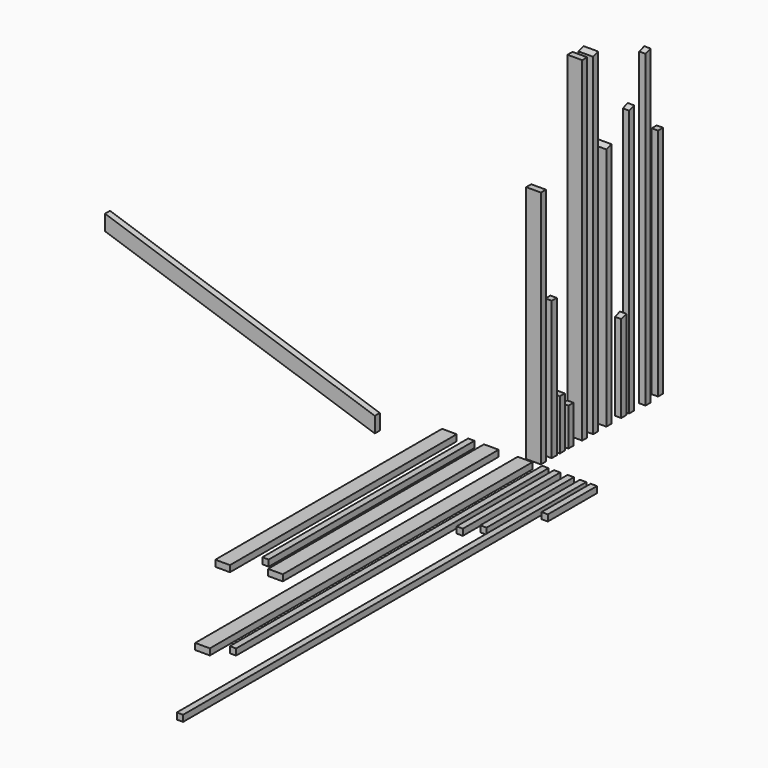
from build123d import *

# Parameters (mm, degrees)
F0_W      = 88.9
F0_H      = 38.1
F1_DEPTH  = 2438.4
F2_W      = 88.9
F2_H      = 38.1
F3_DEPTH  = 1447.8
F4_W      = 38.1
F4_H      = 38.1
F5_DEPTH  = 2362.2
F6_W      = 38.1
F6_H      = 38.1
F7_DEPTH  = 838.2
F8_W      = 38.1
F8_H      = 38.1
F9_DEPTH  = 228.6
F10_W     = 38.1
F10_H     = 38.1
F11_DEPTH = 304.8
F12_W     = 88.9
F12_H     = 38.1
F13_DEPTH = 2025.65
F14_W     = 88.9
F14_H     = 38.1
F15_DEPTH = 1631.95
F16_W     = 38.1
F16_H     = 38.1
F17_DEPTH = 1555.75
F18_W     = 88.9
F18_H     = 38.1
F19_DEPTH = 2022.475
F21_DEPTH = 88.9
F22_W     = 88.9
F22_H     = 38.1
F23_DEPTH = 1489.075
F25_DEPTH = 88.9
F26_W     = 88.9
F26_H     = 38.1
F27_DEPTH = 1714.5
F28_W     = 38.1
F28_H     = 38.1
F29_DEPTH = 539.75
F31_DEPTH = 38.1
F33_DEPTH = 38.1
F34_W     = 38.1
F34_H     = 38.1
F35_DEPTH = 1625.6
F36_W     = 38.1
F36_H     = 38.1
F37_DEPTH = 1885.95
F39_DEPTH = 38.1
F41_DEPTH = 38.1
F42_W     = 38.1
F42_H     = 38.1
F43_DEPTH = 736.6
F44_W     = 38.1
F44_H     = 38.1
F45_DEPTH = 660.4
F46_W     = 38.1
F46_H     = 38.1
F47_DEPTH = 1416.05
F48_W     = 38.1
F48_H     = 38.1
F49_DEPTH = 3048
F50_W     = 38.1
F50_H     = 38.1
F51_DEPTH = 371.475


with BuildPart() as f1:
    # F0 (on Front) → F1 (new body)
    with BuildSketch(Plane.XZ):
        with Locations((-44.45, 19.05)):
            Rectangle(F0_W, F0_H)
    extrude(amount=F1_DEPTH)


with BuildPart() as f3:
    # F2 (on Top) → F3 (new body)
    with BuildSketch(Plane.XY):
        with Locations((-44.45, 83.000144)):
            Rectangle(F2_W, F2_H)
    extrude(amount=F3_DEPTH)


with BuildPart() as f5:
    # F4 (on Front) → F5 (new body)
    with BuildSketch(Plane.XZ):
        with Locations((78.388591, 19.05)):
            Rectangle(F4_W, F4_H)
    extrude(amount=F5_DEPTH)


with BuildPart() as f7:
    # F6 (on Top) → F7 (new body)
    with BuildSketch(Plane.XY):
        with Locations((-19.05, 164.954718)):
            Rectangle(F6_W, F6_H)
    extrude(amount=F7_DEPTH)


with BuildPart() as f9:
    # F8 (on Top) → F9 (new body)
    with BuildSketch(Plane.XY):
        with Locations((-19.05, 291.060236)):
            Rectangle(F8_W, F8_H)
    extrude(amount=F9_DEPTH)


with BuildPart() as f11:
    # F10 (on Top) → F11 (new body)
    with BuildSketch(Plane.XY):
        with Locations((-19.05, 225.900951)):
            Rectangle(F10_W, F10_H)
    extrude(amount=F11_DEPTH)


with BuildPart() as f13:
    # F12 (on Top) → F13 (new body)
    with BuildSketch(Plane.XY):
        with Locations((-44.45, 395.349612)):
            Rectangle(F12_W, F12_H)
    extrude(amount=F13_DEPTH)


with BuildPart() as f15:
    # F14 (on Front) → F15 (new body)
    with BuildSketch(Plane.XZ):
        with Locations((-248.712714, 19.05)):
            Rectangle(F14_W, F14_H)
    extrude(amount=F15_DEPTH)


with BuildPart() as f17:
    # F16 (on Front) → F17 (new body)
    with BuildSketch(Plane.XZ):
        with Locations((-369.40583, 19.05)):
            Rectangle(F16_W, F16_H)
    extrude(amount=F17_DEPTH)


with BuildPart() as f19:
    # F18 (on Top) → F19 (new body)
    with BuildSketch(Plane.XY):
        with Locations((-44.45, 478.600885)):
            Rectangle(F18_W, F18_H)
    extrude(amount=F19_DEPTH)

    # F20 (on face) → F21 (cut)
    with BuildSketch(Plane(origin=(-88.9, 0, 0), x_dir=(0, -1, 0), z_dir=(-1, 0, 0))):
        Polygon((-459.550885, 2022.475), (-497.650885, 2022.475), (-459.550885, 2009.775), align=None)
    extrude(amount=-F21_DEPTH, mode=Mode.SUBTRACT)


with BuildPart() as f23:
    # F22 (on Top) → F23 (new body)
    with BuildSketch(Plane.XY):
        with Locations((-44.45, 577.723007)):
            Rectangle(F22_W, F22_H)
    extrude(amount=F23_DEPTH)

    # F24 (on face) → F25 (cut)
    with BuildSketch(Plane(origin=(-88.9, 0, 0), x_dir=(0, -1, 0), z_dir=(-1, 0, 0))):
        Polygon((-558.673007, 1489.075), (-596.773007, 1489.075), (-558.673007, 1476.375), align=None)
    extrude(amount=-F25_DEPTH, mode=Mode.SUBTRACT)


with BuildPart() as f27:
    # F26 (on Front) → F27 (new body)
    with BuildSketch(Plane.XZ):
        with Locations((-502.16171, 19.05)):
            Rectangle(F26_W, F26_H)
    extrude(amount=F27_DEPTH)


with BuildPart() as f29:
    # F28 (on Top) → F29 (new body)
    with BuildSketch(Plane.XY):
        with Locations((-19.05, 690.509711)):
            Rectangle(F28_W, F28_H)
    extrude(amount=F29_DEPTH)

    # F30 (on face) → F31 (cut)
    with BuildSketch(Plane(origin=(-38.1, 0, 0), x_dir=(0, -1, 0), z_dir=(-1, 0, 0))):
        Polygon((-671.459711, 539.75), (-709.559711, 539.75), (-671.459711, 527.05), align=None)
    extrude(amount=-F31_DEPTH, mode=Mode.SUBTRACT)


with BuildPart() as f33:
    # F32 (on Front) → F33 (new body)
    with BuildSketch(Plane.XZ):
        Polygon((-922.971252, -93.744366), (-922.971252, 0), (-2554.894014, 546.033718), (-2554.894014, 452.289352), align=None)
    extrude(amount=F33_DEPTH)


with BuildPart() as f35:
    # F34 (on Top) → F35 (new body)
    with BuildSketch(Plane.XY):
        with Locations((-19.05, 749.972452)):
            Rectangle(F34_W, F34_H)
    extrude(amount=F35_DEPTH)

    # F40 (on face) → F41 (cut)
    with BuildSketch(Plane(origin=(-38.1, 0, 0), x_dir=(0, -1, 0), z_dir=(-1, 0, 0))):
        Polygon((-730.922452, 1625.6), (-769.022452, 1625.6), (-730.922452, 1612.9), align=None)
    extrude(amount=-F41_DEPTH, mode=Mode.SUBTRACT)


with BuildPart() as f37:
    # F36 (on Top) → F37 (new body)
    with BuildSketch(Plane.XY):
        with Locations((-9.075996, 861.749172)):
            Rectangle(F36_W, F36_H)
    extrude(amount=F37_DEPTH)

    # F38 (on face) → F39 (cut)
    with BuildSketch(Plane(origin=(-28.125996, 0, 0), x_dir=(0, -1, 0), z_dir=(-1, 0, 0))):
        Polygon((-842.699172, 1885.95), (-880.799172, 1885.95), (-842.699172, 1873.25), align=None)
    extrude(amount=-F39_DEPTH, mode=Mode.SUBTRACT)


with BuildPart() as f43:
    # F42 (on Front) → F43 (new body)
    with BuildSketch(Plane.XZ):
        with Locations((149.499343, 19.05)):
            Rectangle(F42_W, F42_H)
    extrude(amount=F43_DEPTH)


with BuildPart() as f45:
    # F44 (on Front) → F45 (new body)
    with BuildSketch(Plane.XZ):
        with Locations((231.896877, 20.611872)):
            Rectangle(F44_W, F44_H)
    extrude(amount=F45_DEPTH)


with BuildPart() as f47:
    # F46 (on Top) → F47 (new body)
    with BuildSketch(Plane.XY):
        with Locations((-20.894323, 970.831931)):
            Rectangle(F46_W, F46_H)
    extrude(amount=F47_DEPTH)


with BuildPart() as f49:
    # F48 (on Front) → F49 (new body)
    with BuildSketch(Plane.XZ):
        with Locations((306.606193, 19.05)):
            Rectangle(F48_W, F48_H)
    extrude(amount=F49_DEPTH)


with BuildPart() as f51:
    # F50 (on Front) → F51 (new body)
    with BuildSketch(Plane.XZ):
        with Locations((371.562496, 19.05)):
            Rectangle(F50_W, F50_H)
    extrude(amount=F51_DEPTH)


solid = Compound([f1.part, f3.part, f5.part, f7.part, f9.part, f11.part, f13.part, f15.part, f17.part, f19.part, f23.part, f27.part, f29.part, f33.part, f35.part, f37.part, f43.part, f45.part, f47.part, f49.part, f51.part])
